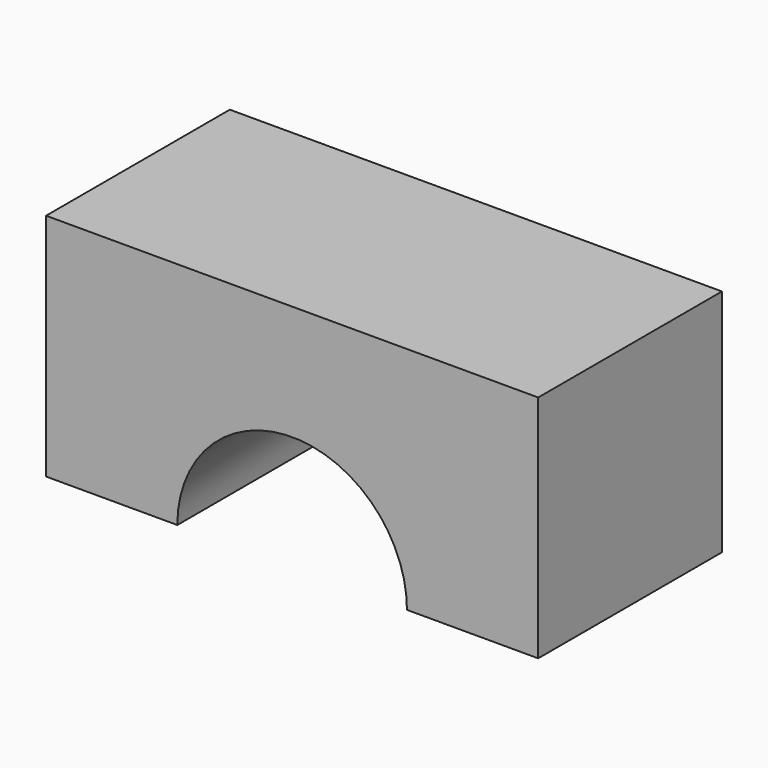
from build123d import *

# Parameters (mm, degrees)
F0_W     = 60
F0_H     = 28
F1_DEPTH = 14
F2_R     = 14
F3_DEPTH = 50


with BuildPart() as f1:
    # F0 (on Top) → F1 (new body, symmetric)
    with BuildSketch(Plane.XY):
        Rectangle(F0_W, F0_H)
    extrude(amount=F1_DEPTH, both=True)

    # F2 (on Front) → F3 (cut, symmetric)
    with BuildSketch(Plane.XZ):
        with Locations((0, -14)):
            Circle(F2_R)
    extrude(amount=F3_DEPTH, both=True, mode=Mode.SUBTRACT)


solid = f1.part
